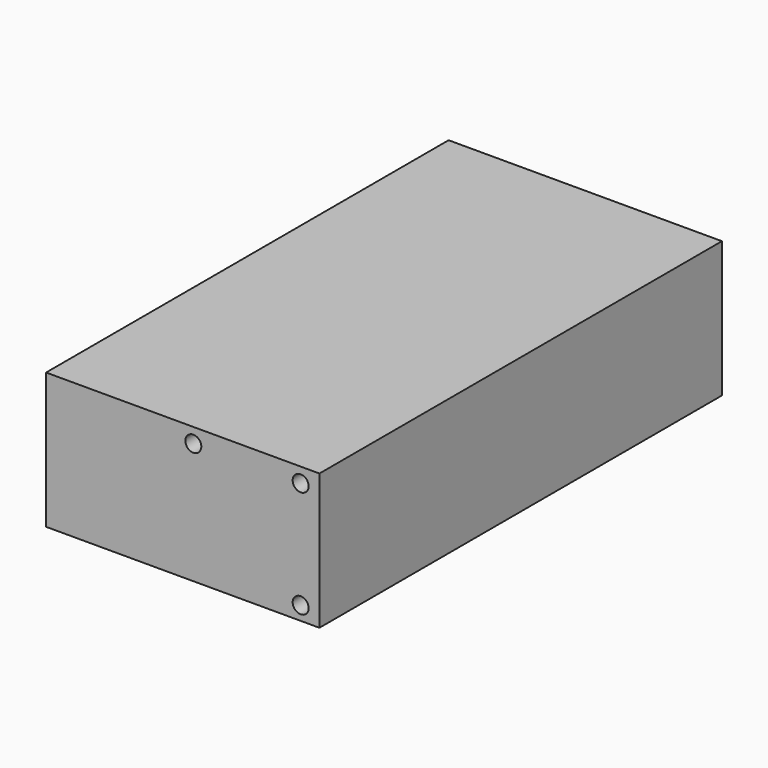
from build123d import *

# Parameters (mm, degrees)
F0_W     = 81.5
F0_H     = 150
F1_DEPTH = 40.5
F2_R     = 2.38125
F3_DEPTH = 10


with BuildPart() as f1:
    # F0 (on Top) → F1 (new body)
    with BuildSketch(Plane.XY):
        Rectangle(F0_W, F0_H)
    extrude(amount=F1_DEPTH)

    # F2 (on face) → F3 (cut)
    with BuildSketch(Plane.XZ.offset(75)):
        with Locations((35.15, 36.1)):
            Circle(F2_R)
        with Locations((35.15, 4.1)):
            Circle(F2_R)
        with Locations((3.15, 36.1)):
            Circle(F2_R)
    extrude(amount=-F3_DEPTH, mode=Mode.SUBTRACT)


solid = f1.part
